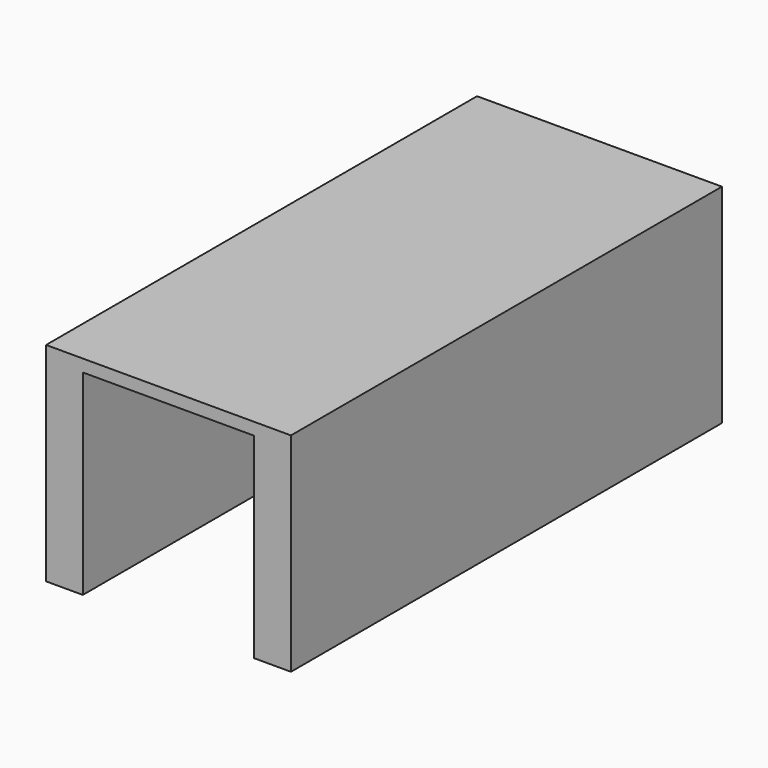
from build123d import *

# Parameters (mm, degrees)
F0_W     = 1000
F0_H     = 50
F1_DEPTH = 2200
F2_W     = 150
F2_H     = 800
F3_DEPTH = 2200


with BuildPart() as f1:
    # F0 (on Front) → F1 (new body)
    with BuildSketch(Plane.XZ):
        with Locations((-4.120639, 825)):
            Rectangle(F0_W, F0_H)
    extrude(amount=F1_DEPTH)

    # F2 (on face) → F3 (join, through all)
    with BuildSketch(Plane.XZ.offset(2200)):
        with Locations((420.879361, 400)):
            Rectangle(F2_W, F2_H)
        with Locations((-429.120639, 400)):
            Rectangle(F2_W, F2_H)
    extrude(amount=-F3_DEPTH)


solid = f1.part
